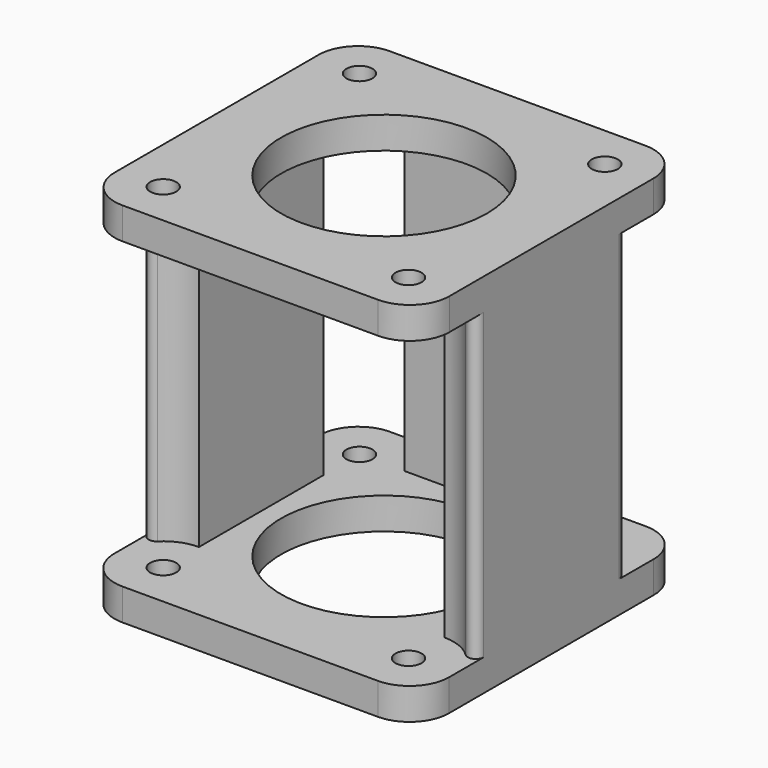
from build123d import *

# Parameters (mm, degrees)
F0_W     = 42.3
F0_H     = 42.3
F0_R     = 1.65
F0_R_2   = 13
F1_DEPTH = 4
F2_R     = 5
F4_DEPTH = 38.36
F5_W     = 42.3
F5_H     = 42.200226
F5_R     = 1.65
F5_R_2   = 13
F6_DEPTH = 4
F7_R     = 5


with BuildPart() as f1:
    # F0 (on Top) → F1 (new body)
    with BuildSketch(Plane.XY):
        Rectangle(F0_W, F0_H)
        with Locations((-15.5, -15.5)):
            Circle(F0_R, mode=Mode.SUBTRACT)
        with Locations((15.5, -15.5)):
            Circle(F0_R, mode=Mode.SUBTRACT)
        with Locations((-15.5, 15.5)):
            Circle(F0_R, mode=Mode.SUBTRACT)
        Circle(F0_R_2, mode=Mode.SUBTRACT)
        with Locations((15.5, 15.5)):
            Circle(F0_R, mode=Mode.SUBTRACT)
    extrude(amount=F1_DEPTH)

    # F2
    f2_edges = [f1.edges().sort_by_distance(p)[0] for p in [
        (-21.15, -21.15, 2),
        (21.15, -21.15, 2),
        (-21.15, 21.15, 2),
        (21.15, 21.15, 2),
    ]]
    fillet(f2_edges, radius=F2_R)

    # F3 (on face) → F4 (join)
    with BuildSketch(Plane.XY.offset(4)):
        with BuildLine():
            ThreePointArc((-15.5, 9.812734), (-17.633029, 10.227886), (-19.454649, 11.412733))
            ThreePointArc((-19.454649, 11.412733), (-20.540287, 11.614756), (-21.15, 10.694063))
            Line((-21.15, 10.694063), (-21.15, -10.746054))
            ThreePointArc((-21.15, -10.746054), (-20.537783, -11.667805), (-19.450752, -11.460933))
            ThreePointArc((-19.450752, -11.460933), (-17.633281, -10.268211), (-15.5, -9.85))
            Line((-15.5, -9.85), (-15.5, 9.812734))
        make_face()
        with BuildLine():
            ThreePointArc((9.812734, 15.5), (10.227886, 17.633029), (11.412733, 19.454649))
            ThreePointArc((11.412733, 19.454649), (11.614756, 20.540287), (10.694063, 21.15))
            Line((10.694063, 21.15), (-10.694063, 21.15))
            ThreePointArc((-10.694063, 21.15), (-11.614756, 20.540287), (-11.412733, 19.454649))
            ThreePointArc((-11.412733, 19.454649), (-10.227886, 17.633029), (-9.812734, 15.5))
            Line((-9.812734, 15.5), (9.812734, 15.5))
        make_face()
        with BuildLine():
            ThreePointArc((15.5, -9.812734), (17.633029, -10.227886), (19.454649, -11.412733))
            ThreePointArc((19.454649, -11.412733), (20.540287, -11.614756), (21.15, -10.694063))
            Line((21.15, -10.694063), (21.15, 10.694063))
            ThreePointArc((21.15, 10.694063), (20.540287, 11.614756), (19.454649, 11.412733))
            ThreePointArc((19.454649, 11.412733), (17.633029, 10.227886), (15.5, 9.812734))
            Line((15.5, 9.812734), (15.5, -9.812734))
        make_face()
    extrude(amount=F4_DEPTH)

    # F5 (on face) → F6 (join)
    with BuildSketch(Plane.XY.offset(42.36)):
        Rectangle(F5_W, F5_H)
        with Locations((-15.5, -15.5)):
            Circle(F5_R, mode=Mode.SUBTRACT)
        with Locations((15.5, -15.5)):
            Circle(F5_R, mode=Mode.SUBTRACT)
        with Locations((-15.5, 15.5)):
            Circle(F5_R, mode=Mode.SUBTRACT)
        Circle(F5_R_2, mode=Mode.SUBTRACT)
        with Locations((15.5, 15.5)):
            Circle(F5_R, mode=Mode.SUBTRACT)
    extrude(amount=F6_DEPTH)

    # F7
    f7_edges = [f1.edges().sort_by_distance(p)[0] for p in [
        (-21.15, -21.100113, 44.36),
        (21.15, -21.100113, 44.36),
        (-21.15, 21.100113, 44.36),
        (21.15, 21.100113, 44.36),
    ]]
    fillet(f7_edges, radius=F7_R)


solid = f1.part
